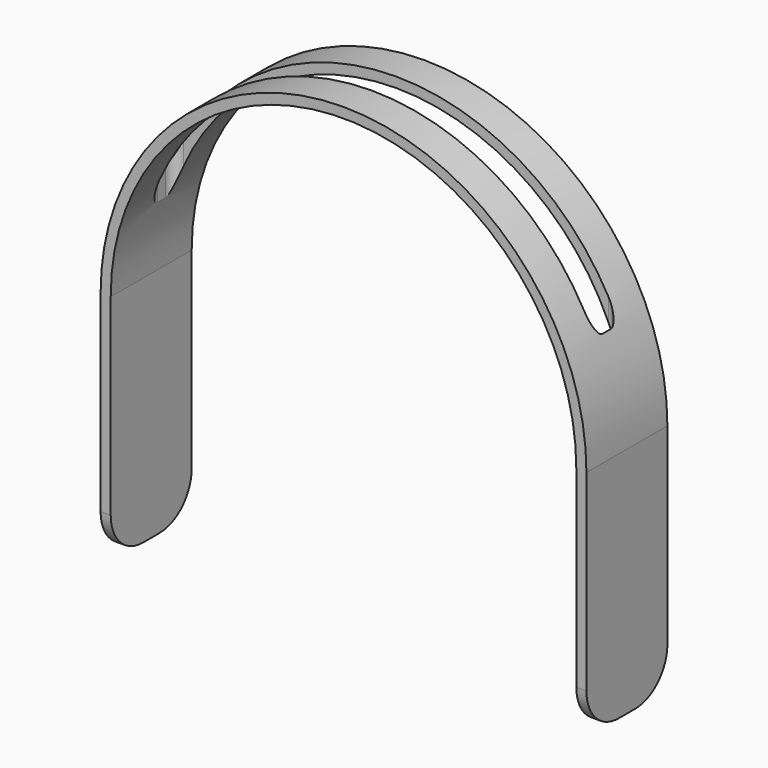
from build123d import *

# Parameters (mm, degrees)
F1_DEPTH = 31.75
F2_R     = 12.7
F4_DEPTH = 76.201


with BuildPart() as f1:
    # F0 (on Front) → F1 (new body)
    with BuildSketch(Plane.XZ):
        with BuildLine():
            ThreePointArc((-73.025, 0), (0, 73.025), (73.025, 0))
            Line((73.025, 0), (73.025, -73.025))
            Line((73.025, -73.025), (76.2, -73.025))
            Line((76.2, -73.025), (76.2, 0))
            ThreePointArc((76.2, 0), (0, 76.2), (-76.2, 0))
            Line((-76.2, 0), (-76.2, -73.025))
            Line((-76.2, -73.025), (-73.025, -73.025))
            Line((-73.025, -73.025), (-73.025, 0))
        make_face()
    extrude(amount=F1_DEPTH)

    # F2
    f2_edges = [f1.edges().sort_by_distance(p)[0] for p in [
        (-74.6125, -31.75, -73.025),
        (-74.6125, 0, -73.025),
        (74.6125, -31.75, -73.025),
        (74.6125, 0, -73.025),
    ]]
    fillet(f2_edges, radius=F2_R)

    # F3 (on Top) → F4 (cut, through all)
    with BuildSketch(Plane.XY):
        with BuildLine():
            ThreePointArc((-69.85, -17.4625), (-68.920064, -19.707564), (-66.675, -20.6375))
            Line((-66.675, -20.6375), (66.675, -20.6375))
            ThreePointArc((66.675, -20.6375), (68.920064, -19.707564), (69.85, -17.4625))
            Line((69.85, -17.4625), (69.85, -14.2875))
            ThreePointArc((69.85, -14.2875), (68.920064, -12.042436), (66.675, -11.1125))
            Line((66.675, -11.1125), (-66.675, -11.1125))
            ThreePointArc((-66.675, -11.1125), (-68.920064, -12.042436), (-69.85, -14.2875))
            Line((-69.85, -14.2875), (-69.85, -17.4625))
        make_face()
    extrude(amount=F4_DEPTH, mode=Mode.SUBTRACT)


solid = f1.part
